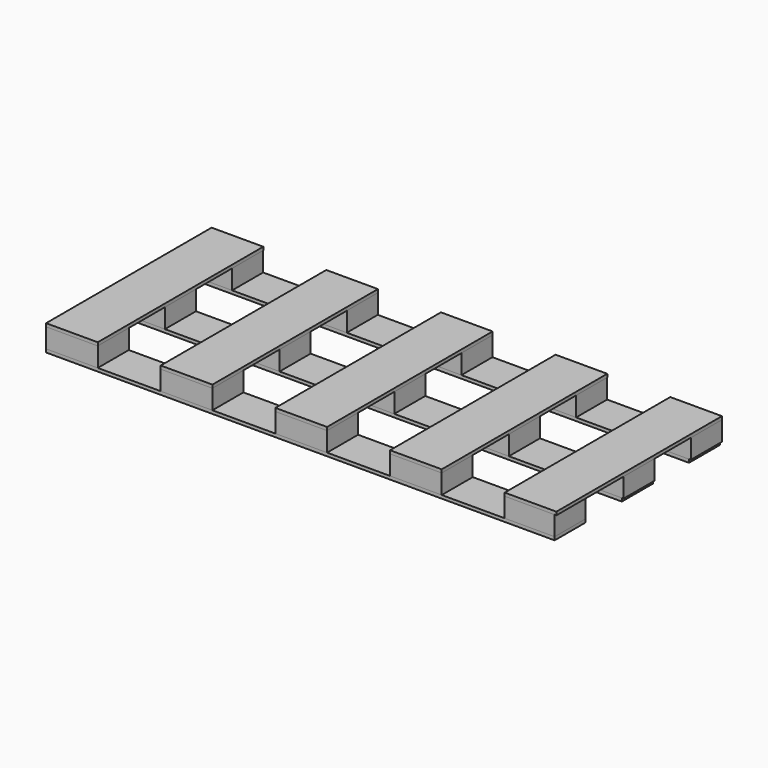
from build123d import *

# Parameters (mm, degrees)
F0_W     = 1999.742
F0_H     = 152.4
F1_DEPTH = 12.7
F2_W     = 203.2
F2_H     = 152.4
F2_W_2   = 196.342
F3_DEPTH = 76.2
F4_W     = 203.2
F4_H     = 152.4
F4_H_2   = 661.175327
F4_H_3   = 813.575327
F5_DEPTH = 12.7


with BuildPart() as f1:
    # F0 (on Top) → F1 (new body)
    with BuildSketch(Plane.XY):
        with Locations((999.871, 76.2)):
            Rectangle(F0_W, F0_H)
        with Locations((999.871, 406.4)):
            Rectangle(F0_W, F0_H)
        with Locations((999.871, 736.6)):
            Rectangle(F0_W, F0_H)
    extrude(amount=F1_DEPTH)


with BuildPart() as f3:
    # F2 (on face) → F3 (new body)
    with BuildSketch(Plane.XY.offset(12.7)):
        with Locations((101.6, 76.2)):
            Rectangle(F2_W, F2_H)
        with Locations((552.45, 76.2)):
            Rectangle(F2_W, F2_H)
        with Locations((1003.3, 76.2)):
            Rectangle(F2_W, F2_H)
        with Locations((1454.15, 76.2)):
            Rectangle(F2_W, F2_H)
        with Locations((1901.571, 76.2)):
            Rectangle(F2_W_2, F2_H)
        with Locations((1905, 406.4)):
            Rectangle(F2_W, F2_H)
        with Locations((1454.15, 406.4)):
            Rectangle(F2_W, F2_H)
        with Locations((1003.3, 406.4)):
            Rectangle(F2_W, F2_H)
        with Locations((552.45, 406.4)):
            Rectangle(F2_W, F2_H)
        with Locations((101.6, 406.4)):
            Rectangle(F2_W, F2_H)
        with Locations((101.6, 736.6)):
            Rectangle(F2_W, F2_H)
        with Locations((552.45, 736.6)):
            Rectangle(F2_W, F2_H)
        with Locations((1003.3, 736.6)):
            Rectangle(F2_W, F2_H)
        with Locations((1454.15, 736.6)):
            Rectangle(F2_W, F2_H)
        with Locations((1905, 736.6)):
            Rectangle(F2_W, F2_H)
    extrude(amount=F3_DEPTH)


with BuildPart() as f5:
    # F4 (on face) → F5 (new body)
    with BuildSketch(Plane.XY.offset(88.9)):
        with Locations((101.6, 76.2)):
            Rectangle(F4_W, F4_H)
        with Locations((101.6, 482.987663)):
            Rectangle(F4_W, F4_H_2)
        with Locations((552.45, 406.787664)):
            Rectangle(F4_W, F4_H_3)
        with Locations((1003.3, 406.787664)):
            Rectangle(F4_W, F4_H_3)
        with Locations((1454.15, 406.787664)):
            Rectangle(F4_W, F4_H_3)
        with Locations((1905, 406.787664)):
            Rectangle(F4_W, F4_H_3)
    extrude(amount=F5_DEPTH)


solid = Compound([f1.part, f3.part, f5.part])
